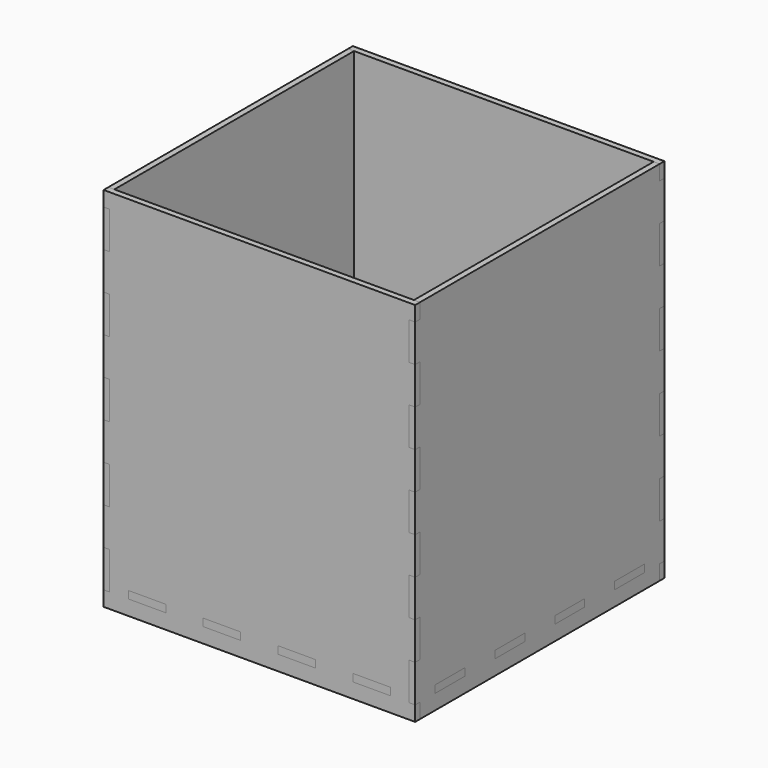
from build123d import *

# Parameters (mm, degrees)
F0_R     = 1
F1_DEPTH = 5
F2_W     = 25
F2_H     = 5
F3_DEPTH = 4
F4_W     = 25
F4_H     = 5
F5_DEPTH = 4


with BuildPart() as f1:
    # F0 (on Top) → F1 (new body)
    with BuildSketch(Plane.XY):
        Polygon((-100, -87.5), (-100, -100), (-87.5, -100), (-87.5, -104), (-62.5, -104), (-62.5, -100), (-50, -100), (-37.5, -100), (-37.5, -104), (-12.5, -104), (-12.5, -100), (0, -100), (12.5, -100), (12.5, -104), (37.5, -104), (37.5, -100), (50, -100), (62.5, -100), (62.5, -104), (87.5, -104), (87.5, -100), (100, -100), (100, -87.5), (104, -87.5), (104, -62.5), (100, -62.5), (100, -50), (100, -37.5), (104, -37.5), (104, -12.5), (100, -12.5), (100, 0), (100, 12.5), (104, 12.5), (104, 37.5), (100, 37.5), (100, 50), (100, 62.5), (104, 62.5), (104, 87.5), (100, 87.5), (100, 100), (87.5, 100), (87.5, 104), (62.5, 104), (62.5, 100), (50, 100), (37.5, 100), (37.5, 104), (12.5, 104), (12.5, 100), (0, 100), (-12.5, 100), (-12.5, 104), (-37.5, 104), (-37.5, 100), (-50, 100), (-62.5, 100), (-62.5, 104), (-87.5, 104), (-87.5, 100), (-100, 100), (-100, 87.5), (-104, 87.5), (-104, 62.5), (-100, 62.5), (-100, 50), (-100, 37.5), (-104, 37.5), (-104, 12.5), (-100, 12.5), (-100, 0), (-100, -12.5), (-104, -12.5), (-104, -37.5), (-100, -37.5), (-100, -50), (-100, -62.5), (-104, -62.5), (-104, -87.5), align=None)
        with BuildLine():
            ThreePointArc((-20.213203, -21.213203), (-22.137083, -21.595887), (-20.506097, -20.506097))
            ThreePointArc((-20.506097, -20.506097), (-20.289324, -20.83052), (-20.213203, -21.213203))
        make_face(mode=Mode.SUBTRACT)
        with BuildLine():
            ThreePointArc((1, -30), (-0.707107, -30.707107), (0, -29))
            ThreePointArc((0, -29), (0.707107, -29.292893), (1, -30))
        make_face(mode=Mode.SUBTRACT)
        with BuildLine():
            ThreePointArc((22.213203, -21.213203), (20.83052, -22.137083), (20.506097, -20.506097))
            ThreePointArc((20.506097, -20.506097), (21.595887, -20.289324), (22.213203, -21.213203))
        make_face(mode=Mode.SUBTRACT)
        with Locations((-30, 0)):
            Circle(F0_R, mode=Mode.SUBTRACT)
        with BuildLine():
            ThreePointArc((-20.213203, 21.213203), (-20.289324, 20.83052), (-20.506097, 20.506097))
            ThreePointArc((-20.506097, 20.506097), (-22.137083, 21.595887), (-20.213203, 21.213203))
        make_face(mode=Mode.SUBTRACT)
        with BuildLine():
            ThreePointArc((0, -7.242641), (-1.85195, -4.471002), (-5.12132, -5.12132))
            ThreePointArc((-5.12132, -5.12132), (-4.471002, -1.85195), (-7.242641, 0))
            ThreePointArc((-7.242641, 0), (-4.471002, 1.85195), (-5.12132, 5.12132))
            ThreePointArc((-5.12132, 5.12132), (-1.85195, 4.471002), (0, 7.242641))
            ThreePointArc((0, 7.242641), (1.85195, 4.471002), (5.12132, 5.12132))
            ThreePointArc((5.12132, 5.12132), (4.471002, 1.85195), (7.242641, 0))
            ThreePointArc((7.242641, 0), (4.471002, -1.85195), (5.12132, -5.12132))
            ThreePointArc((5.12132, -5.12132), (1.85195, -4.471002), (0, -7.242641))
        make_face(mode=Mode.SUBTRACT)
        with BuildLine():
            ThreePointArc((22.213203, 21.213203), (21.595887, 20.289324), (20.506097, 20.506097))
            ThreePointArc((20.506097, 20.506097), (20.83052, 22.137083), (22.213203, 21.213203))
        make_face(mode=Mode.SUBTRACT)
        with BuildLine():
            ThreePointArc((31, 0), (30, -1), (29, 0))
            ThreePointArc((29, 0), (30, 1), (31, 0))
        make_face(mode=Mode.SUBTRACT)
        with BuildLine():
            ThreePointArc((1, 30), (0.707107, 29.292893), (0, 29))
            ThreePointArc((0, 29), (-0.707107, 30.707107), (1, 30))
        make_face(mode=Mode.SUBTRACT)
    extrude(amount=F1_DEPTH)


with BuildPart() as f3:
    # F2 (on face) → F3 (new body)
    with BuildSketch(Plane.XZ.offset(100)):
        Polygon((-104, 0), (-104, -10), (104, -10), (104, 0), (100, 0), (100, 25), (104, 25), (104, 50), (100, 50), (100, 75), (104, 75), (104, 100), (100, 100), (100, 125), (104, 125), (104, 150), (100, 150), (100, 175), (104, 175), (104, 200), (100, 200), (100, 225), (104, 225), (104, 235), (-104, 235), (-104, 225), (-100, 225), (-100, 200), (-104, 200), (-104, 175), (-100, 175), (-100, 150), (-104, 150), (-104, 125), (-100, 125), (-100, 100), (-104, 100), (-104, 75), (-100, 75), (-100, 50), (-104, 50), (-104, 25), (-100, 25), (-100, 0), align=None)
        with Locations((-75, 2.5)):
            Rectangle(F2_W, F2_H, mode=Mode.SUBTRACT)
        with Locations((-25, 2.5)):
            Rectangle(F2_W, F2_H, mode=Mode.SUBTRACT)
        with Locations((25, 2.5)):
            Rectangle(F2_W, F2_H, mode=Mode.SUBTRACT)
        with Locations((75, 2.5)):
            Rectangle(F2_W, F2_H, mode=Mode.SUBTRACT)
    extrude(amount=F3_DEPTH)


with BuildPart() as f5:
    # F4 (on face) → F5 (new body)
    with BuildSketch(Plane.YZ.offset(100)):
        Polygon((-104, 25), (-104, 0), (-100, 0), (-100, -10), (100, -10), (100, 0), (104, 0), (104, 25), (100, 25), (100, 50), (104, 50), (104, 75), (100, 75), (100, 100), (104, 100), (104, 125), (100, 125), (100, 150), (104, 150), (104, 175), (100, 175), (100, 200), (104, 200), (104, 225), (100, 225), (100, 235), (-100, 235), (-100, 225), (-104, 225), (-104, 200), (-100, 200), (-100, 175), (-104, 175), (-104, 150), (-100, 150), (-100, 125), (-104, 125), (-104, 100), (-100, 100), (-100, 75), (-104, 75), (-104, 50), (-100, 50), (-100, 25), align=None)
        with Locations((-75, 2.5)):
            Rectangle(F4_W, F4_H, mode=Mode.SUBTRACT)
        with Locations((-25, 2.5)):
            Rectangle(F4_W, F4_H, mode=Mode.SUBTRACT)
        with Locations((25, 2.5)):
            Rectangle(F4_W, F4_H, mode=Mode.SUBTRACT)
        with Locations((75, 2.5)):
            Rectangle(F4_W, F4_H, mode=Mode.SUBTRACT)
    extrude(amount=F5_DEPTH)


with BuildPart() as f6_1:
    # F6: instance of F3
    add(f3.part.mirror(Plane.XZ))


with BuildPart() as f7_1:
    # F7: instance of F5
    add(f5.part.mirror(Plane.YZ))


solid = Compound([f1.part, f3.part, f5.part, f6_1.part, f7_1.part])
